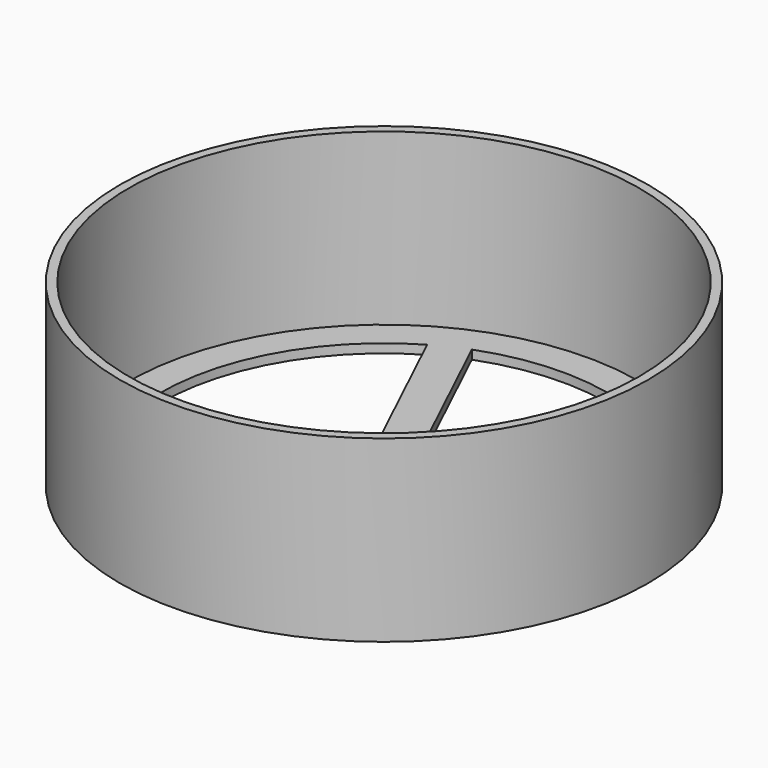
from build123d import *

# Parameters (mm, degrees)
F0_R     = 29.5
F0_R_2   = 28.5
F1_DEPTH = 20
F2_DEPTH = 1
F3_R     = 1.5
F4_DEPTH = 3


with BuildPart() as f1:
    # F0 (on Top) → F1 (new body)
    with BuildSketch(Plane.XY):
        Circle(F0_R)
        Circle(F0_R_2, mode=Mode.SUBTRACT)
    extrude(amount=F1_DEPTH)

    # F0 (on Top) → F2 (join)
    with BuildSketch(Plane.XY):
        Circle(F0_R_2)
        with BuildLine():
            ThreePointArc((-8.887001, 23.367097), (14.191987, 20.581242), (25, 0))
            ThreePointArc((25, 0), (24.919872, -2), (24.68, -3.987179))
            ThreePointArc((24.68, -3.987179), (10.727885, -22.581242), (-12.5, -21.650635))
            ThreePointArc((-12.5, -21.650635), (-14.191987, -20.581242), (-15.792999, -19.379917))
            ThreePointArc((-15.792999, -19.379917), (-24.919872, 2), (-12.5, 21.650635))
            ThreePointArc((-12.5, 21.650635), (-10.727885, 22.581242), (-8.887001, 23.367097))
        make_face(mode=Mode.SUBTRACT)
        with BuildLine():
            Line((0.575662, 3.452335), (-8.887001, 23.367097))
            ThreePointArc((-8.887001, 23.367097), (-10.727885, 22.581242), (-12.5, 21.650635))
            Line((-12.5, 21.650635), (-3.038183, 1.737654))
            ThreePointArc((-3.038183, 1.737654), (-1.500345, 3.162114), (0.575662, 3.452335))
        make_face()
        with BuildLine():
            ThreePointArc((-15.792999, -19.379917), (-14.191987, -20.581242), (-12.5, -21.650635))
            Line((-12.5, -21.650635), (0.014239, -3.499971))
            ThreePointArc((0.014239, -3.499971), (-1.988299, -2.880394), (-3.27764, -1.22763))
            Line((-3.27764, -1.22763), (-15.792999, -19.379917))
        make_face()
        with BuildLine():
            ThreePointArc((3.5, 0), (3.378891, 0.912742), (3.023944, 1.762317))
            ThreePointArc((3.023944, 1.762317), (1.988299, 2.880394), (0.575662, 3.452335))
            ThreePointArc((0.575662, 3.452335), (-1.500345, 3.162114), (-3.038183, 1.737654))
            ThreePointArc((-3.038183, 1.737654), (-3.488644, 0.28172), (-3.27764, -1.22763))
            ThreePointArc((-3.27764, -1.22763), (-1.988299, -2.880394), (0.014239, -3.499971))
            ThreePointArc((0.014239, -3.499971), (1.500345, -3.162114), (2.701978, -2.224705))
            ThreePointArc((2.701978, -2.224705), (3.294459, -1.181752), (3.5, 0))
        make_face()
        with BuildLine():
            ThreePointArc((24.68, -3.987179), (24.919872, -2), (25, 0))
            Line((25, 0), (3.023944, 1.762317))
            ThreePointArc((3.023944, 1.762317), (3.378891, 0.912742), (3.5, 0))
            ThreePointArc((3.5, 0), (3.294459, -1.181752), (2.701978, -2.224705))
            Line((2.701978, -2.224705), (24.68, -3.987179))
        make_face()
    extrude(amount=F2_DEPTH)

    # F3 (on face) → F4 (join)
    with BuildSketch(Plane.XY.offset(1)):
        Circle(F3_R)
    extrude(amount=F4_DEPTH)


solid = f1.part
